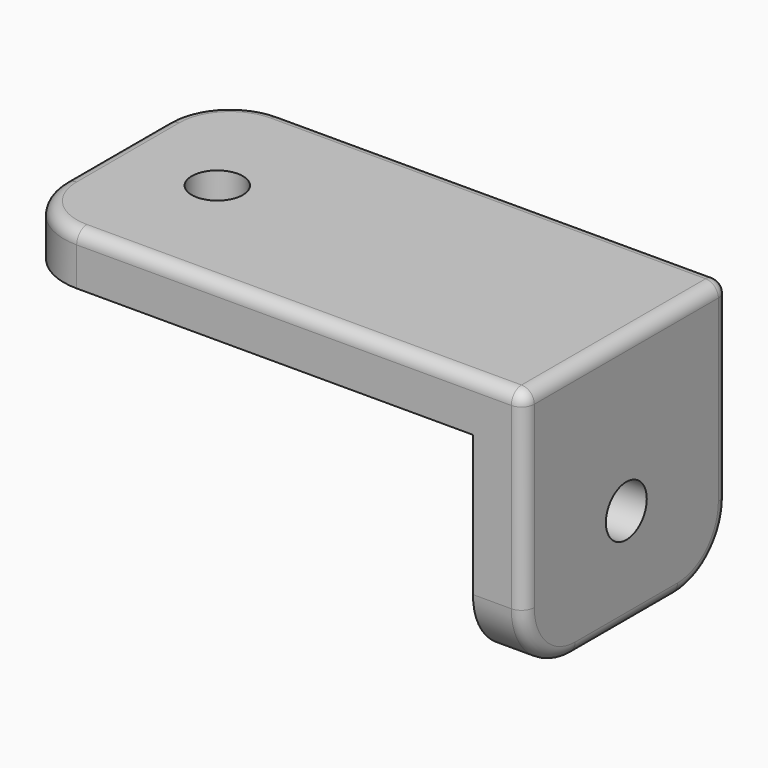
from build123d import *

# Parameters (mm, degrees)
F1_DEPTH = 20
F2_R     = 2
F3_DEPTH = 25
F4_R     = 2
F5_DEPTH = 25
F6_R     = 5
F7_R     = 1


with BuildPart() as f1:
    # F0 (on Front) → F1 (new body)
    with BuildSketch(Plane.XZ):
        Polygon((-4, 0), (0, 0), (0, 20), (-40, 20), (-40, 16), (-4, 16), align=None)
    extrude(amount=F1_DEPTH)

    # F2 (on face) → F3 (cut)
    with BuildSketch(Plane.XY.offset(20)):
        with Locations((-32, -10)):
            Circle(F2_R)
    extrude(amount=-F3_DEPTH, mode=Mode.SUBTRACT)

    # F4 (on face) → F5 (cut)
    with BuildSketch(Plane.YZ):
        with Locations((-10, 8)):
            Circle(F4_R)
    extrude(amount=-F5_DEPTH, mode=Mode.SUBTRACT)

    # F6
    f6_edges = [f1.edges().sort_by_distance(p)[0] for p in [
        (-2, -20, 0),
        (-2, 0, 0),
        (-40, -20, 18),
        (-40, 0, 18),
    ]]
    fillet(f6_edges, radius=F6_R)

    # F7
    f7_edges = [f1.edges().sort_by_distance(p)[0] for p in [
        (-17.5, -20, 20),
        (0, -20, 12.5),
        (0, -10, 20),
    ]]
    fillet(f7_edges, radius=F7_R)


solid = f1.part
